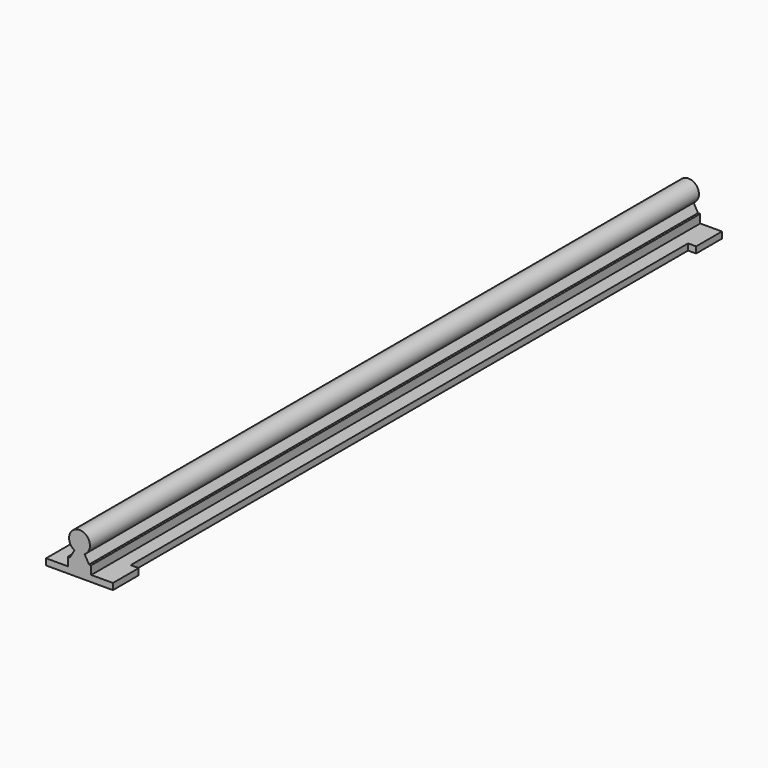
from build123d import *

# Parameters (mm, degrees)
F1_DEPTH = 600
F2_W     = 52.7
F2_H     = 25.4
F3_DEPTH = 5
F4_W     = 6.35
F4_H     = 10
F5_DEPTH = 5


with BuildPart() as f1:
    # F0 (on Front) → F1 (new body)
    with BuildSketch(Plane.XZ):
        with BuildLine():
            Line((-40, 0), (0, 0))
            Line((0, 0), (0, 5))
            Line((0, 5), (-10.75, 5))
            Line((-10.75, 5), (-10.75, 11.7))
            Line((-10.75, 11.7), (-12.478163, 11.7))
            Line((-12.478163, 11.7), (-16, 17.8))
            ThreePointArc((-16, 17.8), (-20, 33.236504), (-24, 17.8))
            Line((-24, 17.8), (-27.521837, 11.7))
            Line((-27.521837, 11.7), (-29.25, 11.7))
            Line((-29.25, 11.7), (-29.25, 5))
            Line((-29.25, 5), (-40, 5))
            Line((-40, 5), (-40, 0))
        make_face()
    extrude(amount=F1_DEPTH)

    # F2 (on face) → F3 (join, through all)
    with BuildSketch(Plane.XY.offset(5)):
        with Locations((-20, -587.3)):
            Rectangle(F2_W, F2_H)
        with Locations((-20, -12.7)):
            Rectangle(F2_W, F2_H)
    extrude(amount=-F3_DEPTH)

    # F4 (on face) → F5 (join, through all)
    with BuildSketch(Plane.XY.offset(5)):
        with Locations((-43.175, -300)):
            Rectangle(F4_W, F4_H)
    extrude(amount=-F5_DEPTH)


solid = f1.part
